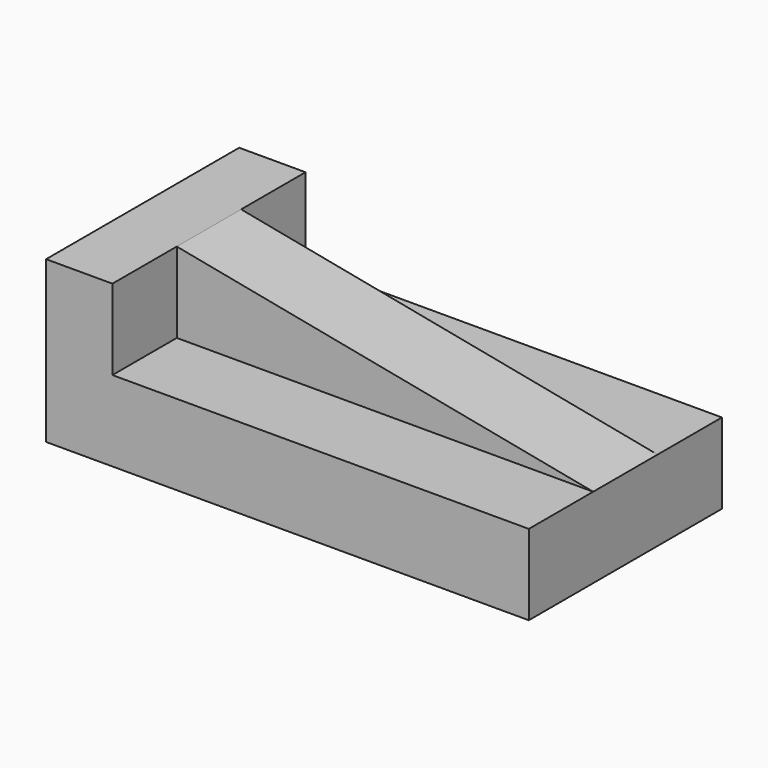
from build123d import *

# Parameters (mm, degrees)
F0_W     = 152.4
F0_H     = 50.8
F1_DEPTH = 76.2
F2_W     = 131.459884
F2_H     = 25.4
F3_DEPTH = 25.4
F4_W     = 131.459884
F4_H     = 25.4
F5_DEPTH = 25.4
F7_DEPTH = 25.4


with BuildPart() as f1:
    # F0 (on Front) → F1 (new body)
    with BuildSketch(Plane.XZ):
        with Locations((135.731251, 25.4)):
            Rectangle(F0_W, F0_H)
    extrude(amount=F1_DEPTH)

    # F2 (on face) → F3 (cut)
    with BuildSketch(Plane.XY.offset(50.8)):
        with Locations((146.201309, -63.5)):
            Rectangle(F2_W, F2_H)
    extrude(amount=-F3_DEPTH, mode=Mode.SUBTRACT)

    # F4 (on face) → F5 (cut)
    with BuildSketch(Plane.XY.offset(50.8)):
        with Locations((146.201309, -12.7)):
            Rectangle(F4_W, F4_H)
    extrude(amount=-F5_DEPTH, mode=Mode.SUBTRACT)

    # F6 (on face) → F7 (cut)
    with BuildSketch(Plane.XZ.offset(50.8)):
        Polygon((211.931251, 50.8), (80.471367, 50.8), (211.931251, 25.4), align=None)
    extrude(amount=-F7_DEPTH, mode=Mode.SUBTRACT)


solid = f1.part
